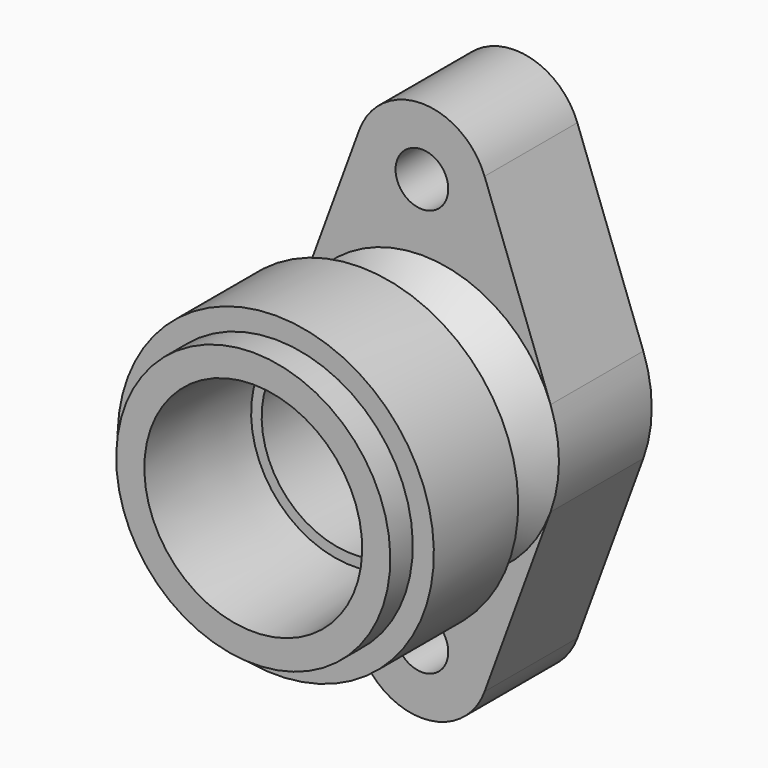
from build123d import *

# Parameters (mm, degrees)
F2_R     = 7.5
F3_DEPTH = 33


with BuildPart() as f1:
    # F0 (on Right) → F1 (revolve)
    with BuildSketch(Plane.YZ):
        with BuildLine():
            Line((-12.0403646417, 39), (-12.0403646417, 31))
            Line((-12.0403646417, 31), (23.4514921904, 29))
            Line((23.4514921904, 29), (23.4514921904, 26))
            Line((23.4514921904, 26), (65.4514921904, 26))
            Line((65.4514921904, 26), (65.4514921904, 0))
            Line((65.4514921904, 0), (77.9596353583, 0))
            Line((77.9596353583, 0), (77.9596353583, 32))
            Line((77.9596353583, 32), (80.9596353583, 32))
            Line((80.9596353583, 32), (80.9596353583, 39))
            Line((80.9596353583, 39), (47.9596353583, 39))
            Line((47.9596353583, 39), (33.8275175401, 29.1045845728))
            ThreePointArc((33.8275175401, 29.1045845728), (28.6508922921, 28.7652906284), (25.9596353583, 33.2003447942))
            Line((25.9596353583, 33.2003447942), (25.9596353583, 39))
            Line((25.9596353583, 39), (25.9596353583, 45))
            Line((25.9596353583, 45), (-4.0403646417, 45))
            Line((-4.0403646417, 45), (-4.0403646417, 39))
            Line((-4.0403646417, 39), (-12.0403646417, 39))
        make_face()
    revolve(axis=Axis((0, 71.7055637743, 0), (0, -1, 0)))

    # F2 (on face) → F3 (join)
    with BuildSketch(Plane(origin=(0, 80.9596353583, 0), x_dir=(-1, 0, 0), z_dir=(0, 1, 0))):
        with BuildLine():
            Line((36.6079755837, 13.4482758621), (17.8346547716, 64.5517241379))
            ThreePointArc((17.8346547716, 64.5517241379), (0, 77), (-17.8346547716, 64.5517241379))
            Line((-17.8346547716, 64.5517241379), (-36.6079755837, 13.4482758621))
            ThreePointArc((-36.6079755837, 13.4482758621), (0, 39), (36.6079755837, 13.4482758621))
        make_face()
        with Locations((0, 58)):
            Circle(F2_R, mode=Mode.SUBTRACT)
        with BuildLine():
            Line((17.8346547716, -64.5517241379), (36.6079755837, -13.4482758621))
            ThreePointArc((36.6079755837, -13.4482758621), (0, -39), (-36.6079755837, -13.4482758621))
            Line((-36.6079755837, -13.4482758621), (-17.8346547716, -64.5517241379))
            ThreePointArc((-17.8346547716, -64.5517241379), (0, -77), (17.8346547716, -64.5517241379))
        make_face()
        with Locations((0, -58)):
            Circle(F2_R, mode=Mode.SUBTRACT)
    extrude(amount=-F3_DEPTH)


solid = f1.part
